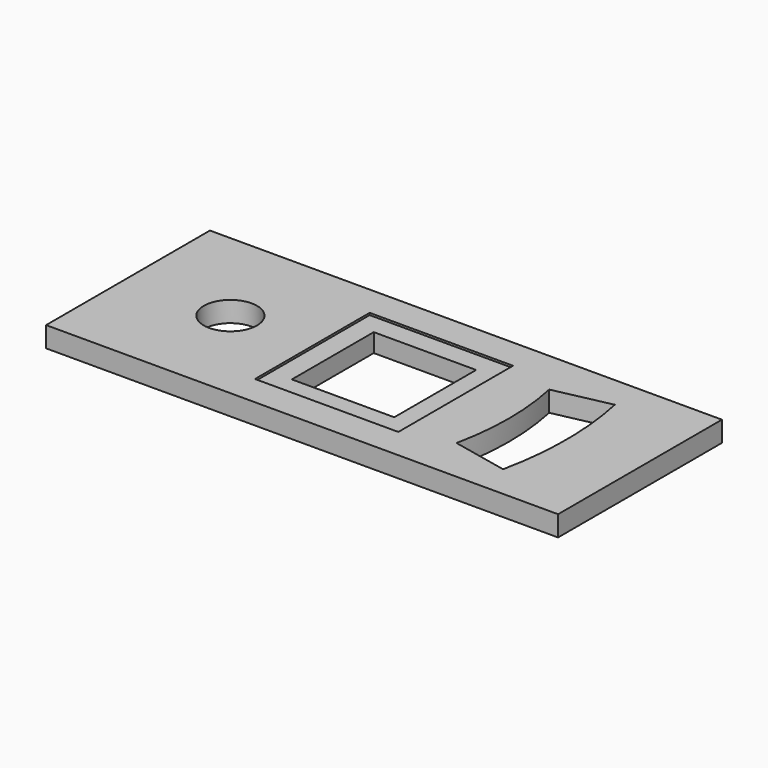
from build123d import *

# Parameters (mm, degrees)
CYLINDER002_W               = 13.6
CYLINDER002_H               = 11
CYLINDER002_ANGLE           = 24
CYLINDER002_PLACEMENT_ANGLE = -12
CYLINDER001_W               = 16.4
CYLINDER001_H               = 10
CYLINDER001_ANGLE           = 24
CYLINDER001_PLACEMENT_ANGLE = -12
CYLINDER_R                  = 1.3
CYLINDER_DEPTH              = 10
BOX002_W                    = 7
BOX002_H                    = 7
BOX002_DEPTH                = 0.5
BOX001_W                    = 5
BOX001_H                    = 5
BOX001_DEPTH                = 2
BOX_W                       = 25
BOX_H                       = 10
BOX_DEPTH                   = 1


with BuildPart() as zylinder002:
    # Cylinder002 → Cylinder002 (revolve)
    with BuildSketch(Plane.XZ):
        with Locations((6.8, 5.5)):
            Rectangle(CYLINDER002_W, CYLINDER002_H)
    revolve(axis=Axis((0, 0, 0), (0, 0, 1)), revolution_arc=CYLINDER002_ANGLE)


with BuildPart() as zylinder002_1:
    # Cylinder002 placement: moved
    add(zylinder002.part.moved(Location((3, 5, 0))).rotate(Axis((3, 5, 0), (0, 0, 1)), CYLINDER002_PLACEMENT_ANGLE))


with BuildPart() as cut:
    # Cylinder001 → Cylinder001 (revolve)
    with BuildSketch(Plane.XZ):
        with Locations((8.2, 5)):
            Rectangle(CYLINDER001_W, CYLINDER001_H)
    revolve(axis=Axis((0, 0, 0), (0, 0, 1)), revolution_arc=CYLINDER001_ANGLE)


with BuildPart() as cut_1:
    # Cylinder001 placement: moved
    add(cut.part.moved(Location((3, 5, 0))).rotate(Axis((3, 5, 0), (0, 0, 1)), CYLINDER001_PLACEMENT_ANGLE))

    # Cut: cut Zylinder002
    add(zylinder002_1.part, mode=Mode.SUBTRACT)


with BuildPart() as cut_2:
    # Cut placement: moved
    add(cut_1.part.moved(Location((2, 0, 0))))


with BuildPart() as zylinder:
    # Cylinder → Cylinder (new body)
    with BuildSketch(Plane(origin=(5, 5, 0), x_dir=(1, 0, 0), z_dir=(0, 0, 1))):
        Circle(CYLINDER_R)
    extrude(amount=CYLINDER_DEPTH)


with BuildPart() as obj1:
    # Box002 → Box002 (new body)
    with BuildSketch(Plane(origin=(9, 1.5, 0.9), x_dir=(1, 0, 0), z_dir=(0, 0, 1))):
        with Locations((3.5, 3.5)):
            Rectangle(BOX002_W, BOX002_H)
    extrude(amount=BOX002_DEPTH)


with BuildPart() as obj2:
    # Box001 → Box001 (new body)
    with BuildSketch(Plane(origin=(10, 2.5, 0), x_dir=(1, 0, 0), z_dir=(0, 0, 1))):
        with Locations((2.5, 2.5)):
            Rectangle(BOX001_W, BOX001_H)
    extrude(amount=BOX001_DEPTH)


with BuildPart() as cut004:
    # Box → Box (new body)
    with BuildSketch(Plane.XY):
        with Locations((12.5, 5)):
            Rectangle(BOX_W, BOX_H)
    extrude(amount=BOX_DEPTH)

    # Cut001: cut obj2
    add(obj2.part, mode=Mode.SUBTRACT)

    # Cut002: cut obj1
    add(obj1.part, mode=Mode.SUBTRACT)

    # Cut003: cut Zylinder
    add(zylinder.part, mode=Mode.SUBTRACT)

    # Cut004: cut Cut
    add(cut_2.part, mode=Mode.SUBTRACT)


solid = cut004.part
